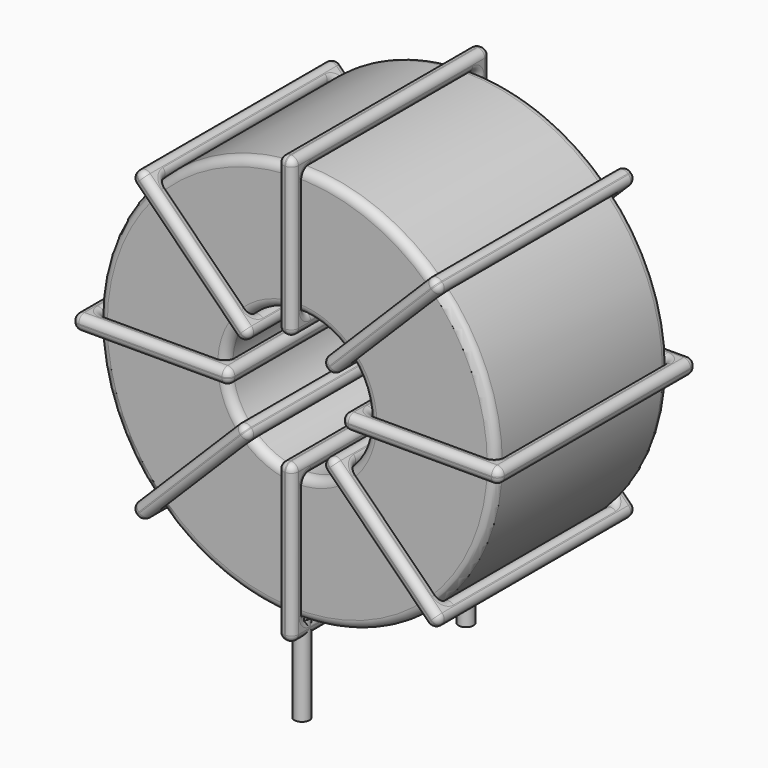
from build123d import *

# Parameters (mm, degrees)
SKETCH001_R       = 0.45
PAD001_DEPTH      = 0.9
PAD001_DEPTH_BACK = 4.4
SKETCH_R          = 11.8
SKETCH_R_2        = 4.233333
PAD_DEPTH         = 6.45
FILLET_R          = 0.5
SKETCH003_W       = 9.366667
SKETCH003_H       = 14.7
SKETCH003_W_2     = 7.566667
SKETCH003_H_2     = 12.9
PAD002_DEPTH      = 0.45
FILLET001_R       = 0.423
SKETCH004_W       = 9.366667
SKETCH004_H       = 14.7
SKETCH004_W_2     = 7.566667
SKETCH004_H_2     = 12.9
PAD003_DEPTH      = 0.45
FILLET002_R       = 0.423
SKETCH005_W       = 9.366667
SKETCH005_H       = 14.7
SKETCH005_W_2     = 7.566667
SKETCH005_H_2     = 12.9
PAD004_DEPTH      = 0.45
FILLET003_R       = 0.423
SKETCH006_W       = 9.366667
SKETCH006_H       = 14.7
SKETCH006_W_2     = 7.566667
SKETCH006_H_2     = 12.9
PAD005_DEPTH      = 0.45
FILLET004_R       = 0.423


with BuildPart() as pad001:
    # Sketch001 → Pad001 (new body, two sides)
    with BuildSketch(Plane.XY.offset(1.4)) as pad001_sk:
        Circle(SKETCH001_R)
        with Locations((0, -12.2)):
            Circle(SKETCH001_R)
    extrude(amount=PAD001_DEPTH)
    extrude(pad001_sk.sketch, amount=-PAD001_DEPTH_BACK)


with BuildPart() as fillet_body:
    # Sketch → Pad (new body, symmetric)
    with BuildSketch(Plane.XZ.offset(6.1)):
        with Locations((0, 14.1)):
            Circle(SKETCH_R)
        with Locations((0, 14.1)):
            Circle(SKETCH_R_2, mode=Mode.SUBTRACT)
    extrude(amount=PAD_DEPTH, both=True)

    # Fillet
    fillet_edges = [fillet_body.edges().sort_by_distance(p)[0] for p in [
        (-4.233333, -12.55, 14.1),
        (-11.8, -12.55, 14.1),
        (-11.8, 0.35, 14.1),
    ]]
    fillet(fillet_edges, radius=FILLET_R)


with BuildPart() as fillet001:
    # Sketch003 → Pad002 (new body, symmetric)
    with BuildSketch(Plane(origin=(0, 1.25, 14.1), x_dir=(1, 0, 0), z_dir=(0, 0, -1))):
        with Locations((-8.016666, 7.35)):
            Rectangle(SKETCH003_W, SKETCH003_H)
        with Locations((-8.016666, 7.35)):
            Rectangle(SKETCH003_W_2, SKETCH003_H_2, mode=Mode.SUBTRACT)
        with Locations((8.016666, 7.35)):
            Rectangle(SKETCH003_W, SKETCH003_H)
        with Locations((8.016666, 7.35)):
            Rectangle(SKETCH003_W_2, SKETCH003_H_2, mode=Mode.SUBTRACT)
    extrude(amount=PAD002_DEPTH, both=True)

    # Fillet001
    fillet001_edges = [fillet001.edges().sort_by_distance(p)[0] for p in [
        (11.8, -12.55, 14.1),
        (11.8, 0.35, 14.1),
        (11.8, -6.1, 14.55),
        (11.8, -6.1, 13.65),
        (12.7, 1.25, 14.1),
        (3.333333, 1.25, 14.1),
        (8.016667, 1.25, 14.55),
        (8.016667, 1.25, 13.65),
        (3.333333, -13.45, 14.1),
        (3.333333, -6.1, 14.55),
        (3.333333, -6.1, 13.65),
        (-11.8, -12.55, 14.1),
        (-4.233333, -12.55, 14.1),
        (-8.016667, -12.55, 14.55),
        (-8.016667, -12.55, 13.65),
        (-4.233333, 0.35, 14.1),
        (-4.233333, -6.1, 14.55),
        (-4.233333, -6.1, 13.65),
        (-3.333333, 1.25, 14.1),
        (-12.7, 1.25, 14.1),
        (-8.016667, 1.25, 14.55),
        (-8.016667, 1.25, 13.65),
        (-12.7, -13.45, 14.1),
        (-12.7, -6.1, 14.55),
        (-12.7, -6.1, 13.65),
        (4.233333, -12.55, 14.1),
        (8.016667, -12.55, 14.55),
        (8.016667, -12.55, 13.65),
        (-11.8, 0.35, 14.1),
        (-11.8, -6.1, 14.55),
        (-11.8, -6.1, 13.65),
        (-8.016667, 0.35, 14.55),
        (-8.016667, 0.35, 13.65),
        (-3.333333, -13.45, 14.1),
        (-8.016667, -13.45, 14.55),
        (-8.016667, -13.45, 13.65),
        (-3.333333, -6.1, 14.55),
        (-3.333333, -6.1, 13.65),
        (12.7, -13.45, 14.1),
        (8.016667, -13.45, 14.55),
        (8.016667, -13.45, 13.65),
        (12.7, -6.1, 14.55),
        (12.7, -6.1, 13.65),
        (4.233333, 0.35, 14.1),
        (4.233333, -6.1, 14.55),
        (4.233333, -6.1, 13.65),
        (8.016667, 0.35, 14.55),
        (8.016667, 0.35, 13.65),
    ]]
    fillet(fillet001_edges, radius=FILLET001_R)


with BuildPart() as fillet002:
    # Sketch004 → Pad003 (new body, symmetric)
    with BuildSketch(Plane(origin=(0, 1.25, 14.1), x_dir=(0.707108, 0, 0.707106), z_dir=(0.707106, 0, -0.707108))):
        with Locations((-8.016666, 7.35)):
            Rectangle(SKETCH004_W, SKETCH004_H)
        with Locations((-8.016666, 7.35)):
            Rectangle(SKETCH004_W_2, SKETCH004_H_2, mode=Mode.SUBTRACT)
        with Locations((8.016666, 7.35)):
            Rectangle(SKETCH004_W, SKETCH004_H)
        with Locations((8.016666, 7.35)):
            Rectangle(SKETCH004_W_2, SKETCH004_H_2, mode=Mode.SUBTRACT)
    extrude(amount=PAD003_DEPTH, both=True)

    # Fillet002
    fillet002_edges = [fillet002.edges().sort_by_distance(p)[0] for p in [
        (-8.34387, -12.55, 5.75615),
        (-2.993422, 0.35, 11.106585),
        (-5.986844, 0.35, 8.749566),
        (-5.350448, 0.35, 8.113169),
        (-8.980267, -13.45, 5.119754),
        (-2.357025, -13.45, 11.74298),
        (-5.986844, -13.45, 8.749566),
        (-5.350448, -13.45, 8.113169),
        (-2.357025, 1.25, 11.74298),
        (-2.675223, -6.1, 12.061179),
        (-2.038828, -6.1, 11.424782),
        (2.993422, -12.55, 17.093415),
        (8.34387, -12.55, 22.44385),
        (5.350448, -12.55, 20.086831),
        (5.986844, -12.55, 19.450434),
        (8.34387, 0.35, 22.44385),
        (8.025672, -6.1, 22.762049),
        (8.662067, -6.1, 22.125652),
        (2.357025, -13.45, 16.45702),
        (8.980267, -13.45, 23.080246),
        (5.350448, -13.45, 20.086831),
        (5.986844, -13.45, 19.450434),
        (8.980267, 1.25, 23.080246),
        (8.662069, -6.1, 23.398444),
        (9.298464, -6.1, 22.762047),
        (-8.34387, 0.35, 5.75615),
        (-8.662067, -6.1, 6.074348),
        (-8.025672, -6.1, 5.437951),
        (2.993422, 0.35, 17.093415),
        (2.675224, -6.1, 17.411614),
        (3.31162, -6.1, 16.775217),
        (5.350448, 0.35, 20.086831),
        (5.986844, 0.35, 19.450434),
        (2.357025, 1.25, 16.45702),
        (5.350448, 1.25, 20.086831),
        (5.986844, 1.25, 19.450434),
        (2.038828, -6.1, 16.775218),
        (2.675223, -6.1, 16.138821),
        (-8.980267, 1.25, 5.119754),
        (-5.986844, 1.25, 8.749566),
        (-5.350448, 1.25, 8.113169),
        (-9.298464, -6.1, 5.437953),
        (-8.662069, -6.1, 4.801556),
        (-2.993422, -12.55, 11.106585),
        (-5.986844, -12.55, 8.749566),
        (-5.350448, -12.55, 8.113169),
        (-3.31162, -6.1, 11.424783),
        (-2.675224, -6.1, 10.788386),
    ]]
    fillet(fillet002_edges, radius=FILLET002_R)


with BuildPart() as fillet003:
    # Sketch005 → Pad004 (new body, symmetric)
    with BuildSketch(Plane(origin=(0, 1.25, 14.1), x_dir=(0.707108, 0, -0.707106), z_dir=(-0.707106, 0, -0.707108))):
        with Locations((-8.016666, 7.35)):
            Rectangle(SKETCH005_W, SKETCH005_H)
        with Locations((-8.016666, 7.35)):
            Rectangle(SKETCH005_W_2, SKETCH005_H_2, mode=Mode.SUBTRACT)
        with Locations((8.016666, 7.35)):
            Rectangle(SKETCH005_W, SKETCH005_H)
        with Locations((8.016666, 7.35)):
            Rectangle(SKETCH005_W_2, SKETCH005_H_2, mode=Mode.SUBTRACT)
    extrude(amount=PAD004_DEPTH, both=True)

    # Fillet003
    fillet003_edges = [fillet003.edges().sort_by_distance(p)[0] for p in [
        (8.34387, -12.55, 5.75615),
        (8.34387, 0.35, 5.75615),
        (8.662067, -6.1, 6.074348),
        (8.025672, -6.1, 5.437951),
        (8.980267, 1.25, 5.119754),
        (2.357025, 1.25, 11.74298),
        (5.986844, 1.25, 8.749566),
        (5.350448, 1.25, 8.113169),
        (2.357025, -13.45, 11.74298),
        (2.675223, -6.1, 12.061179),
        (2.038828, -6.1, 11.424782),
        (-8.34387, -12.55, 22.44385),
        (-2.993422, -12.55, 17.093415),
        (-5.350448, -12.55, 20.086831),
        (-5.986844, -12.55, 19.450434),
        (-2.993422, 0.35, 17.093415),
        (-2.675224, -6.1, 17.411614),
        (-3.31162, -6.1, 16.775217),
        (-2.357025, 1.25, 16.45702),
        (-8.980267, 1.25, 23.080246),
        (-5.350448, 1.25, 20.086831),
        (-5.986844, 1.25, 19.450434),
        (-8.980267, -13.45, 23.080246),
        (-8.662069, -6.1, 23.398444),
        (-9.298464, -6.1, 22.762047),
        (2.993422, -12.55, 11.106585),
        (5.986844, -12.55, 8.749566),
        (5.350448, -12.55, 8.113169),
        (-8.34387, 0.35, 22.44385),
        (-8.025672, -6.1, 22.762049),
        (-8.662067, -6.1, 22.125652),
        (-5.350448, 0.35, 20.086831),
        (-5.986844, 0.35, 19.450434),
        (-2.357025, -13.45, 16.45702),
        (-5.350448, -13.45, 20.086831),
        (-5.986844, -13.45, 19.450434),
        (-2.038828, -6.1, 16.775218),
        (-2.675223, -6.1, 16.138821),
        (8.980267, -13.45, 5.119754),
        (5.986844, -13.45, 8.749566),
        (5.350448, -13.45, 8.113169),
        (9.298464, -6.1, 5.437953),
        (8.662069, -6.1, 4.801556),
        (2.993422, 0.35, 11.106585),
        (3.31162, -6.1, 11.424783),
        (2.675224, -6.1, 10.788386),
        (5.986844, 0.35, 8.749566),
        (5.350448, 0.35, 8.113169),
    ]]
    fillet(fillet003_edges, radius=FILLET003_R)


with BuildPart() as fillet004:
    # Sketch006 → Pad005 (new body, symmetric)
    with BuildSketch(Plane(origin=(0, 1.25, 14.1), x_dir=(0, 0, 1), z_dir=(1, 0, 0))):
        with Locations((-8.016666, 7.35)):
            Rectangle(SKETCH006_W, SKETCH006_H)
        with Locations((-8.016666, 7.35)):
            Rectangle(SKETCH006_W_2, SKETCH006_H_2, mode=Mode.SUBTRACT)
        with Locations((8.016666, 7.35)):
            Rectangle(SKETCH006_W, SKETCH006_H)
        with Locations((8.016666, 7.35)):
            Rectangle(SKETCH006_W_2, SKETCH006_H_2, mode=Mode.SUBTRACT)
    extrude(amount=PAD005_DEPTH, both=True)

    # Fillet004
    fillet004_edges = [fillet004.edges().sort_by_distance(p)[0] for p in [
        (0, -12.55, 25.9),
        (0, 0.35, 25.9),
        (-0.45, -6.1, 25.9),
        (0.45, -6.1, 25.9),
        (0, 1.25, 26.8),
        (0, 1.25, 17.433333),
        (-0.45, 1.25, 22.116667),
        (0.45, 1.25, 22.116667),
        (0, -13.45, 17.433333),
        (-0.45, -6.1, 17.433333),
        (0.45, -6.1, 17.433333),
        (0, -12.55, 2.3),
        (0, -12.55, 9.866667),
        (-0.45, -12.55, 6.083333),
        (0.45, -12.55, 6.083333),
        (0, 0.35, 9.866667),
        (-0.45, -6.1, 9.866667),
        (0.45, -6.1, 9.866667),
        (0, 1.25, 10.766667),
        (0, 1.25, 1.4),
        (-0.45, 1.25, 6.083333),
        (0.45, 1.25, 6.083333),
        (0, -13.45, 1.4),
        (-0.45, -6.1, 1.4),
        (0.45, -6.1, 1.4),
        (0, -12.55, 18.333333),
        (-0.45, -12.55, 22.116667),
        (0.45, -12.55, 22.116667),
        (0, 0.35, 2.3),
        (-0.45, -6.1, 2.3),
        (0.45, -6.1, 2.3),
        (-0.45, 0.35, 6.083333),
        (0.45, 0.35, 6.083333),
        (0, -13.45, 10.766667),
        (-0.45, -13.45, 6.083333),
        (0.45, -13.45, 6.083333),
        (-0.45, -6.1, 10.766667),
        (0.45, -6.1, 10.766667),
        (0, -13.45, 26.8),
        (-0.45, -13.45, 22.116667),
        (0.45, -13.45, 22.116667),
        (-0.45, -6.1, 26.8),
        (0.45, -6.1, 26.8),
        (0, 0.35, 18.333333),
        (-0.45, -6.1, 18.333333),
        (0.45, -6.1, 18.333333),
        (-0.45, 0.35, 22.116667),
        (0.45, 0.35, 22.116667),
    ]]
    fillet(fillet004_edges, radius=FILLET004_R)


solid = Compound([pad001.part, fillet_body.part, fillet001.part, fillet002.part, fillet003.part, fillet004.part])
